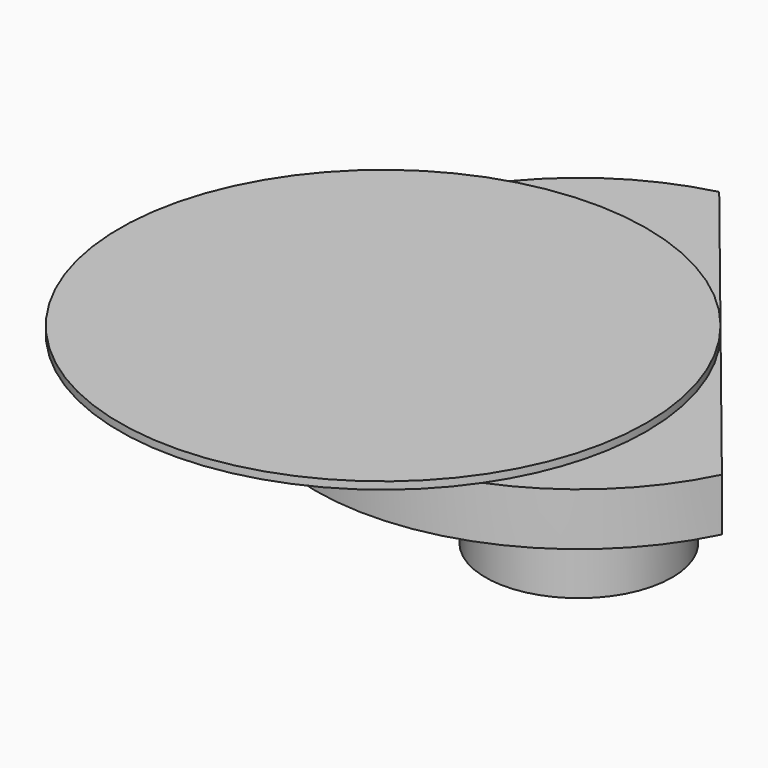
from build123d import *

# Parameters (mm, degrees)
F0_R     = 4.4958
F0_R_2   = 1.5875
F1_DEPTH = 6.35
F2_R     = 12.7
F3_DEPTH = 2.54
F5_DEPTH = 2.541
F6_R     = 12.7
F7_DEPTH = 0.3556


with BuildPart() as f1:
    # F0 (on Top) → F1 (new body)
    with BuildSketch(Plane.XY):
        Circle(F0_R)
        Circle(F0_R_2, mode=Mode.SUBTRACT)
    extrude(amount=F1_DEPTH)

    # F2 (on face) → F3 (join)
    with BuildSketch(Plane.XY.offset(6.35)):
        Circle(F2_R)
    extrude(amount=F3_DEPTH)

    # F4 (on face) → F5 (cut, through all)
    with BuildSketch(Plane(origin=(0, 0, 6.35), x_dir=(1, 0, 0), z_dir=(0, 0, -1))):
        Polygon((21.399127, -20.925693), (19.316025, 15.433881), (-10.036758, -20.925693), align=None)
    extrude(amount=-F5_DEPTH, mode=Mode.SUBTRACT)

    # F6 (on face) → F7 (join)
    with BuildSketch(Plane.XY.offset(8.89)):
        with Locations((-5.730732, -4.626373)):
            Circle(F6_R)
    extrude(amount=F7_DEPTH)


solid = f1.part
